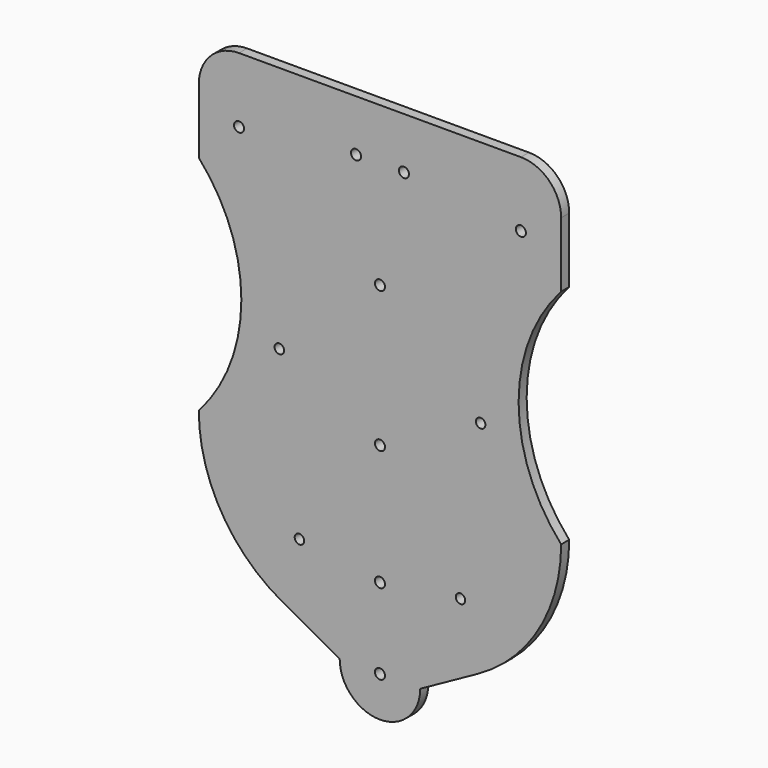
from build123d import *

# Parameters (mm, degrees)
F0_R     = 1.5875
F0_R_2   = 1.5
F1_DEPTH = 3.175


with BuildPart() as f1:
    # F0 (on Front) → F1 (new body)
    with BuildSketch(Plane.XZ):
        with BuildLine():
            ThreePointArc((-12.7, 0), (0, -12.7), (12.7, 0))
            ThreePointArc((12.7, 0), (0, 12.7), (-12.7, 0))
        make_face()
        Circle(F0_R, mode=Mode.SUBTRACT)
        with BuildLine():
            ThreePointArc((-12.7, 0), (0, 12.7), (12.7, 0))
            Line((12.7, 0), (30.943444, 10.093794))
            ThreePointArc((30.943444, 10.093794), (50.110639, 28.743667), (57.15, 54.543794))
            ThreePointArc((57.15, 54.543794), (43.726088, 89.639294), (57.15, 124.734794))
            Line((57.15, 124.734794), (57.15, 145.243444))
            ThreePointArc((57.15, 145.243444), (53.430256, 154.2237), (44.45, 157.943444))
            Line((44.45, 157.943444), (-44.45, 157.943444))
            ThreePointArc((-44.45, 157.943444), (-53.430256, 154.2237), (-57.15, 145.243444))
            Line((-57.15, 145.243444), (-57.15, 124.734794))
            ThreePointArc((-57.15, 124.734794), (-43.726088, 89.639294), (-57.15, 54.543794))
            ThreePointArc((-57.15, 54.543794), (-50.110639, 28.743667), (-30.943444, 10.093794))
            Line((-30.943444, 10.093794), (-12.7, 0))
        make_face()
        with Locations((-25.4, 29.143794)):
            Circle(F0_R_2, mode=Mode.SUBTRACT)
        with Locations((0, 25.4)):
            Circle(F0_R, mode=Mode.SUBTRACT)
        with Locations((25.4, 29.143794)):
            Circle(F0_R_2, mode=Mode.SUBTRACT)
        with Locations((0, 63.5)):
            Circle(F0_R, mode=Mode.SUBTRACT)
        with Locations((-31.75, 79.943794)):
            Circle(F0_R_2, mode=Mode.SUBTRACT)
        with Locations((-44.45, 137.434794)):
            Circle(F0_R, mode=Mode.SUBTRACT)
        with Locations((-7.550921, 141.723698)):
            Circle(F0_R, mode=Mode.SUBTRACT)
        with Locations((0, 107.95)):
            Circle(F0_R, mode=Mode.SUBTRACT)
        with Locations((31.75, 79.943794)):
            Circle(F0_R_2, mode=Mode.SUBTRACT)
        with Locations((7.550921, 141.723698)):
            Circle(F0_R, mode=Mode.SUBTRACT)
        with Locations((44.45, 137.434794)):
            Circle(F0_R, mode=Mode.SUBTRACT)
    extrude(amount=F1_DEPTH)


solid = f1.part
